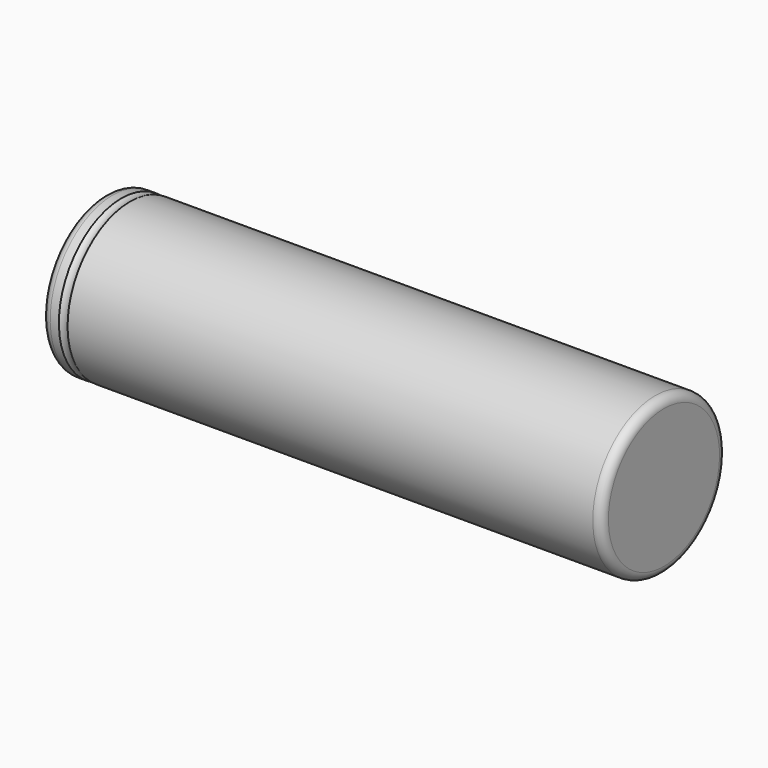
from build123d import *


with BuildPart() as part:
    # Sketch → Revolution (revolve)
    with BuildSketch(Plane.XZ):
        with BuildLine():
            Line((-32.5, 0), (-32.5, 5))
            ThreePointArc((-32.3, 5.2), (-32.441421, 5.141421), (-32.5, 5))
            Line((-32.3, 5.2), (-31, 5.2))
            Line((-31, 5.2), (-31, 6.2))
            Line((-31, 6.2), (-32, 6.2))
            Line((-32, 6.2), (-32, 8))
            ThreePointArc((-31, 9), (-31.707107, 8.707107), (-32, 8))
            Line((-31, 9), (-30, 9))
            ThreePointArc((-30, 9), (-29.5, 8.866025), (-29, 9))
            Line((-29, 9), (31.5, 9))
            ThreePointArc((32.5, 8), (32.207107, 8.707107), (31.5, 9))
            Line((32.5, 8), (32.5, 0))
            Line((32.5, 0), (-32.5, 0))
        make_face()
    revolve(axis=Axis((0, 0, 0), (1, 0, 0)))


solid = part.part
